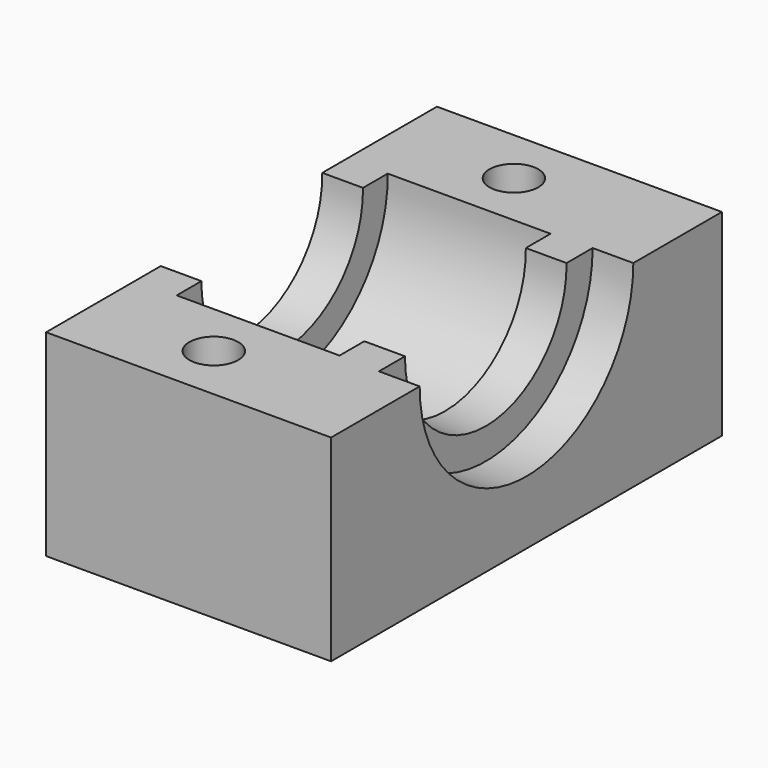
from build123d import *

# Parameters (mm, degrees)
SKETCH002_R     = 8.1
PAD001_DEPTH    = 5
SKETCH_W        = 15
SKETCH_H        = 30
PAD_DEPTH       = 12.1
SKETCH001_R     = 6.2
POCKET_DEPTH    = 15.001
SKETCH003_R     = 1.5
POCKET001_DEPTH = 12.101
SKETCH004_R     = 2.8
POCKET002_DEPTH = 3
SKETCH005_W     = 30
SKETCH005_H     = 12.1
PAD002_DEPTH    = 2.5
SKETCH006_R     = 8.2
POCKET003_DEPTH = 2.5


with BuildPart() as pad001:
    # Sketch002 → Pad001 (new body, symmetric)
    with BuildSketch(Plane.YZ):
        with Locations((0, 12)):
            Circle(SKETCH002_R)
    extrude(amount=PAD001_DEPTH, both=True)


with BuildPart() as pocket003:
    # Sketch → Pad (new body)
    with BuildSketch(Plane.XY):
        Rectangle(SKETCH_W, SKETCH_H)
    extrude(amount=PAD_DEPTH)

    # Sketch001 → Pocket (cut, through all)
    with BuildSketch(Plane.YZ.offset(7.5)):
        with Locations((0, 12)):
            Circle(SKETCH001_R)
    extrude(amount=-POCKET_DEPTH, mode=Mode.SUBTRACT)

    # Cut: cut Pad001
    add(pad001.part, mode=Mode.SUBTRACT)

    # Sketch003 → Pocket001 (cut, through all)
    with BuildSketch(Plane(origin=(0, 0, 0), x_dir=(1, 0, 0), z_dir=(0, 0, -1))):
        with Locations((0.026833, -11.5)):
            Circle(SKETCH003_R)
        with Locations((0, 11.5)):
            Circle(SKETCH003_R)
    extrude(amount=-POCKET001_DEPTH, mode=Mode.SUBTRACT)

    # Sketch004 → Pocket002 (cut)
    with BuildSketch(Plane(origin=(0, 0, 0), x_dir=(1, 0, 0), z_dir=(0, 0, -1))):
        with Locations((0, 11.5)):
            Circle(SKETCH004_R)
        with Locations((0, -11.5)):
            Circle(SKETCH004_R)
    extrude(amount=-POCKET002_DEPTH, mode=Mode.SUBTRACT)

    # Sketch005 → Pad002 (new body)
    with BuildSketch(Plane.YZ.offset(7.5)):
        with Locations((0, 6.05)):
            Rectangle(SKETCH005_W, SKETCH005_H)
    extrude(amount=PAD002_DEPTH)

    # Sketch006 → Pocket003 (cut)
    with BuildSketch(Plane.YZ.offset(10)):
        with Locations((0, 12.1)):
            Circle(SKETCH006_R)
    extrude(amount=-POCKET003_DEPTH, mode=Mode.SUBTRACT)


solid = pocket003.part
